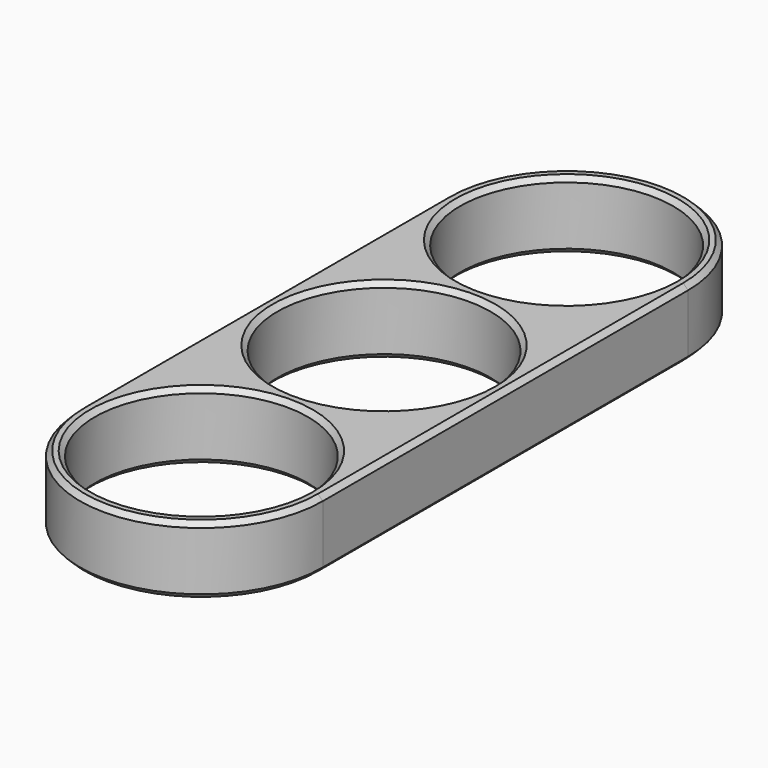
from build123d import *

# Parameters (mm, degrees)
F0_R     = 10.975
F1_DEPTH = 3.5
F2_SIZE  = 0.5


with BuildPart() as f1:
    # F0 (on Top) → F1 (new body, symmetric)
    with BuildSketch(Plane.XY):
        with BuildLine():
            Line((12.5, -23.5), (12.5, 23.5))
            ThreePointArc((12.5, 23.5), (0, 36), (-12.5, 23.5))
            Line((-12.5, 23.5), (-12.5, -23.5))
            ThreePointArc((-12.5, -23.5), (0, -36), (12.5, -23.5))
        make_face()
        with Locations((0, -23.5)):
            Circle(F0_R, mode=Mode.SUBTRACT)
        Circle(F0_R, mode=Mode.SUBTRACT)
        with Locations((0, 23.5)):
            Circle(F0_R, mode=Mode.SUBTRACT)
    extrude(amount=F1_DEPTH, both=True)

    # F2
    f2_edges = [f1.edges().sort_by_distance(p)[0] for p in [
        (12.5, 0, -3.5),
        (0, 36, -3.5),
        (-12.5, 0, -3.5),
        (0, -36, -3.5),
        (-10.975, -23.5, -3.5),
        (-10.975, 0, -3.5),
        (-10.975, 23.5, -3.5),
        (12.5, 0, 3.5),
        (0, 36, 3.5),
        (-12.5, 0, 3.5),
        (0, -36, 3.5),
        (-10.975, -23.5, 3.5),
        (-10.975, 0, 3.5),
        (-10.975, 23.5, 3.5),
    ]]
    chamfer(f2_edges, length=F2_SIZE)


solid = f1.part
